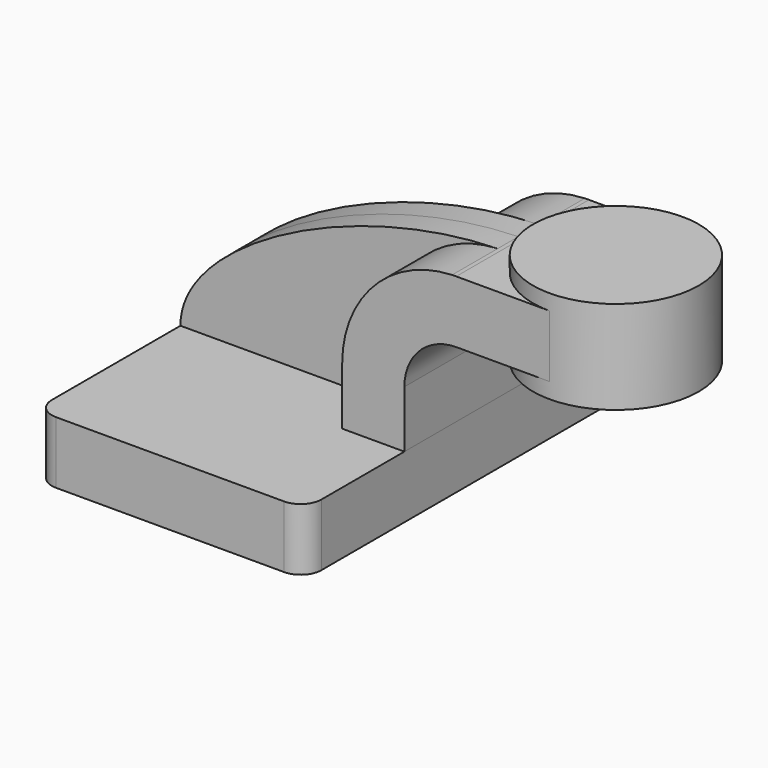
from build123d import *

# Parameters (mm, degrees)
F1_DEPTH = 63.5
F0_W     = 25.4
F0_H     = 19.05
F2_DEPTH = 25.4
F3_DEPTH = 7.9375
F5_R     = 6.35


with BuildPart() as f1:
    # F0 (on Front) → F1 (new body, symmetric)
    with BuildSketch(Plane.XZ):
        Polygon((-41.275, 9.525), (-41.275, -9.525), (41.275, -9.525), (41.275, 9.525), (22.225, 9.525), align=None)
    extrude(amount=F1_DEPTH, both=True)

    # F5
    f5_edges = [f1.edges().sort_by_distance(p)[0] for p in [
        (41.275, -63.5, 0),
        (-41.275, -63.5, 0),
        (41.275, 63.5, 0),
        (-41.275, 63.5, 0),
    ]]
    fillet(f5_edges, radius=F5_R)


with BuildPart() as f2:
    # F0 (on Front) → F2 (new body, symmetric)
    with BuildSketch(Plane.XZ):
        with BuildLine():
            Line((22.225, 9.525), (41.275, 9.525))
            Line((41.275, 9.525), (41.275, 27.0002))
            ThreePointArc((41.275, 27.0002), (45.9246798487, 38.2255201513), (57.15, 42.8752))
            Line((57.15, 42.8752), (60.325, 42.8752))
            Line((60.325, 42.8752), (60.325, 61.9252))
            Line((60.325, 61.9252), (57.15, 61.9252))
            add(Edge.make_bspline(
                [(55.8745981031, 61.9019044713), (56.3003238087, 61.9119834463), (56.7254739052, 61.919756725), (57.15, 61.9252)],
                knots=[110.4681868296, 110.4681868296, 110.4681868296, 110.4681868296, 111.5045361635, 111.5045361635, 111.5045361635, 111.5045361635], degree=3))
            ThreePointArc((55.8745981031, 61.9019044713), (32.0074162401, 51.240788006), (22.225, 27.0002))
            Line((22.225, 27.0002), (22.225, 9.525))
        make_face()
        with Locations((73.025, 52.4002)):
            Rectangle(F0_W, F0_H)
    extrude(amount=F2_DEPTH, both=True)

    # F0 (on Front) → F4 (revolve)
    with BuildSketch(Plane.XZ):
        Polygon((85.725, 66.675), (85.725, 61.9252), (85.725, 42.8752), (85.725, 38.1), (111.125, 38.1), (111.125, 66.675), align=None)
    revolve(axis=Axis((85.725, 0, 52.3875), (0, 0, 1)))


with BuildPart() as f3:
    # F0 (on Front) → F3 (new body, symmetric)
    with BuildSketch(Plane.XZ):
        with BuildLine():
            add(Edge.make_bspline(
                [(-41.275, 9.525), (-41.4248394155, 33.5554330459), (10.494970545, 60.8275504321), (55.8745981031, 61.9019044713)],
                knots=[0, 0, 0, 0, 110.4681868296, 110.4681868296, 110.4681868296, 110.4681868296], degree=3))
            Line((-41.275, 9.525), (22.225, 9.525))
            Line((22.225, 9.525), (22.225, 27.0002))
            ThreePointArc((22.225, 27.0002), (32.0074162401, 51.240788006), (55.8745981031, 61.9019044713))
        make_face()
    extrude(amount=F3_DEPTH, both=True)


solid = Compound([f1.part, f2.part, f3.part])
